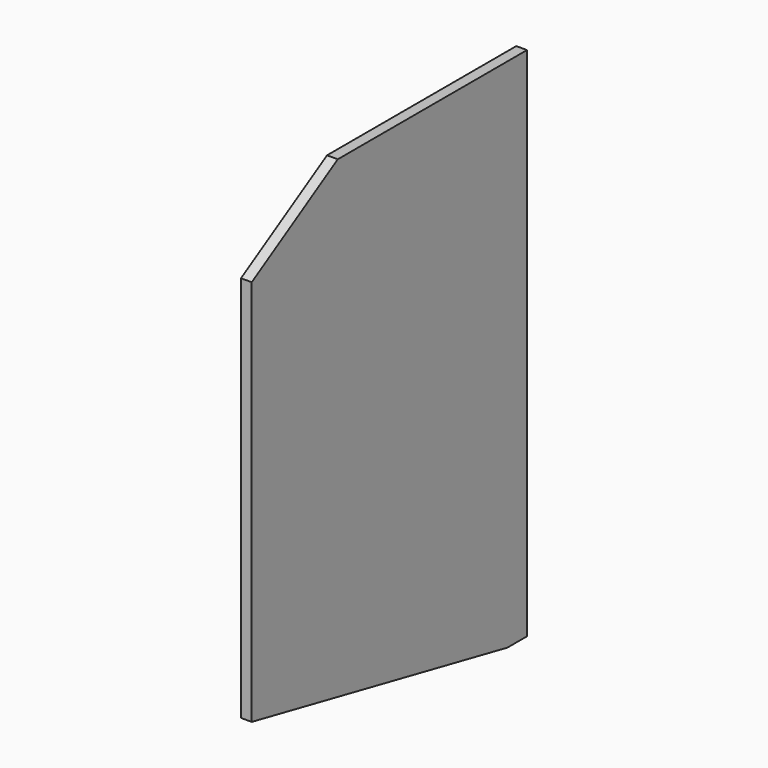
from build123d import *

# Parameters (mm, degrees)
F1_DEPTH = 6.35
F3_DEPTH = 25.4


with BuildPart() as f1:
    # F0 (on Right) → F1 (new body)
    with BuildSketch(Plane.YZ):
        Polygon((101.6, -152.4), (101.6, 152.4), (-38.1, 152.4), (-101.6, 114.3), (-101.6, -114.3), (-38.1, -152.4), align=None)
    extrude(amount=F1_DEPTH)

    # F2 (on face) → F3 (cut)
    with BuildSketch(Plane(origin=(0, 0, 0), x_dir=(0, -1, 0), z_dir=(-1, 0, 0))):
        Polygon((38.1, -152.4), (101.6, -114.3), (-87.157562, -152.4), align=None)
    extrude(amount=-F3_DEPTH, mode=Mode.SUBTRACT)


solid = f1.part
